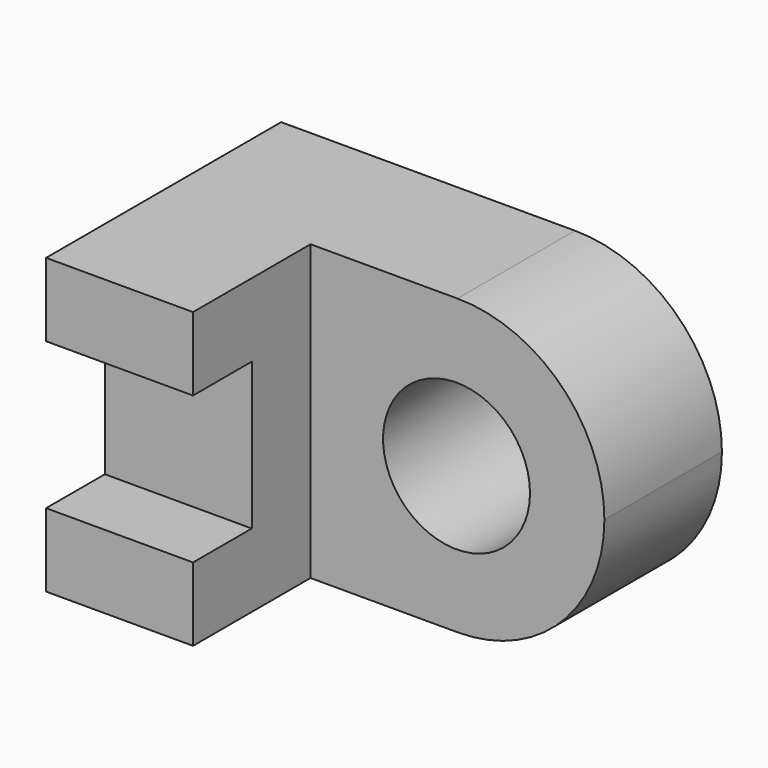
from build123d import *

# Parameters (mm, degrees)
F1_DEPTH = 12.7
F2_W     = 38.1
F2_H     = 12.7
F3_DEPTH = 25.4
F5_DEPTH = 25.4
F6_DEPTH = 25.4
F7_R     = 6.35
F8_DEPTH = 25.4


with BuildPart() as f1:
    # F0 (on Right) → F1 (new body)
    with BuildSketch(Plane.YZ):
        Polygon((0, 6.35), (0, 0), (12.7, 0), (12.7, 25.4), (0, 25.4), (0, 19.05), (6.35, 19.05), (6.35, 6.35), align=None)
    extrude(amount=F1_DEPTH)

    # F2 (on Top) → F3 (join)
    with BuildSketch(Plane.XY):
        with Locations((19.05, 19.05)):
            Rectangle(F2_W, F2_H)
    extrude(amount=F3_DEPTH)

    # F4 (on face) → F5 (cut)
    with BuildSketch(Plane.XZ.offset(-12.7)):
        with BuildLine():
            ThreePointArc((25.4, 25.4), (34.380256, 21.680256), (38.1, 12.7))
            Line((38.1, 12.7), (38.1, 25.4))
            Line((38.1, 25.4), (25.4, 25.4))
        make_face()
    extrude(amount=-F5_DEPTH, mode=Mode.SUBTRACT)

    # F4 (on face) → F6 (cut)
    with BuildSketch(Plane.XZ.offset(-12.7)):
        with BuildLine():
            Line((38.1, 0), (38.1, 12.7))
            ThreePointArc((38.1, 12.7), (34.380256, 3.719744), (25.4, 0))
            Line((25.4, 0), (38.1, 0))
        make_face()
    extrude(amount=-F6_DEPTH, mode=Mode.SUBTRACT)

    # F7 (on face) → F8 (cut)
    with BuildSketch(Plane.XZ.offset(-12.7)):
        with Locations((25.320489, 12.631381)):
            Circle(F7_R)
    extrude(amount=-F8_DEPTH, mode=Mode.SUBTRACT)


solid = f1.part
